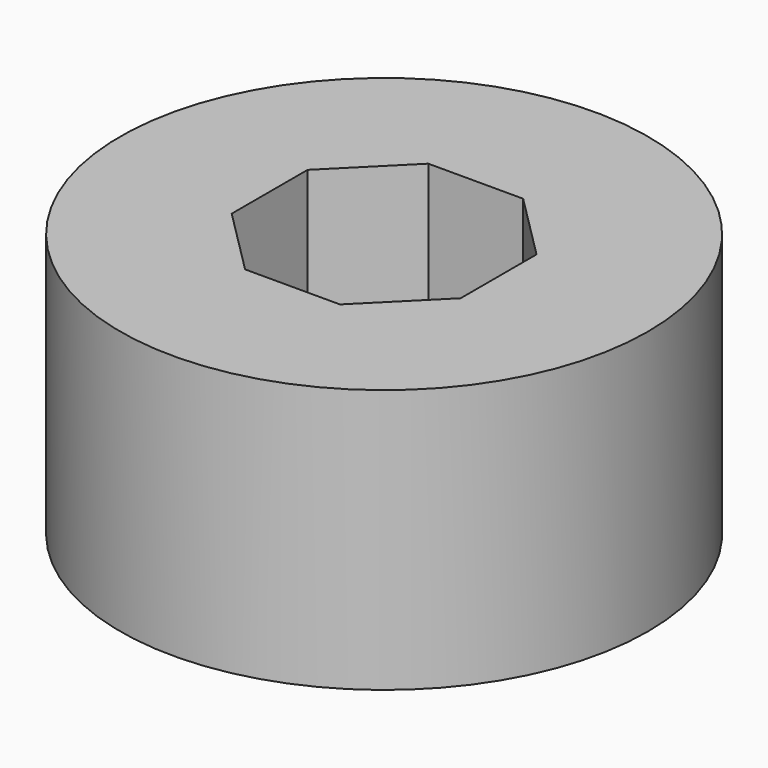
from build123d import *

# Parameters (mm, degrees)
F0_R     = 50
F1_DEPTH = 50
F3_DEPTH = 25


with BuildPart() as f1:
    # F0 (on Top) → F1 (new body)
    with BuildSketch(Plane.XY):
        Circle(F0_R)
    extrude(amount=F1_DEPTH)

    # F2 (on face) → F3 (cut)
    with BuildSketch(Plane.XY.offset(50)):
        Polygon((-8.982444, -21.685537), (8.982444, -21.685537), (21.685537, -8.982444), (21.685537, 8.982444), (8.982444, 21.685537), (-8.982444, 21.685537), (-21.685537, 8.982444), (-21.685537, -8.982444), align=None)
    extrude(amount=-F3_DEPTH, mode=Mode.SUBTRACT)


solid = f1.part
